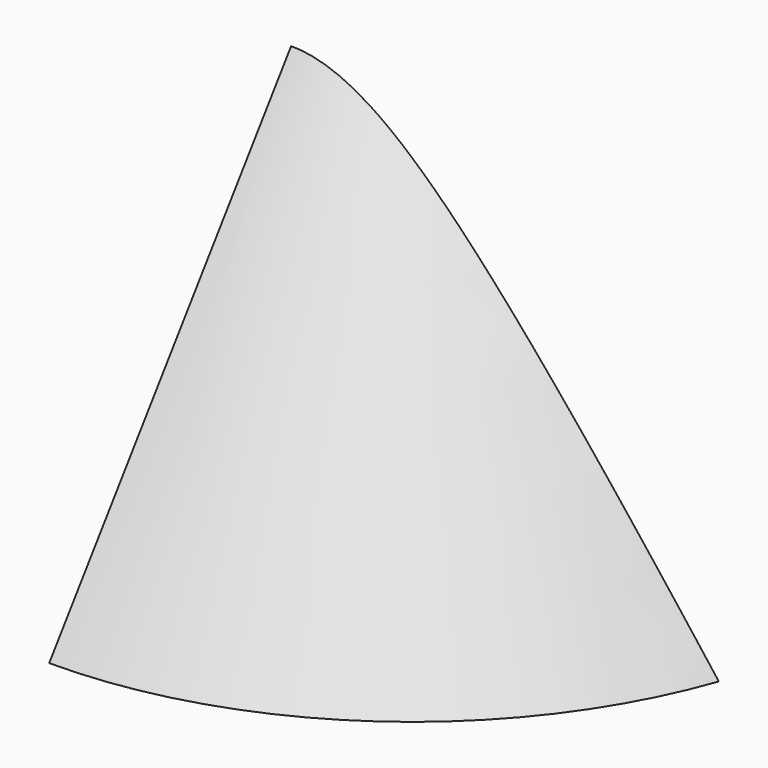
from build123d import *

# Parameters (mm, degrees)
F1_ANGLE = 100
F2_W     = 125.228167
F2_H     = 72.214484
F3_DEPTH = 200


with BuildPart() as f1:
    # F0 (on Right) → F1 (revolve)
    with BuildSketch(Plane.YZ):
        Polygon((0, 106.040175), (0, 111.176472), (-80, 0), (-76.304041, 0), align=None)
    revolve(axis=Axis((0, 40, 34.041554), (0, 0, 1)), revolution_arc=F1_ANGLE)

    # F2 (on Top) → F3 (cut)
    with BuildSketch(Plane.XY):
        with Locations((62.614083, 36.107242)):
            Rectangle(F2_W, F2_H)
    extrude(amount=F3_DEPTH, mode=Mode.SUBTRACT)


solid = f1.part
